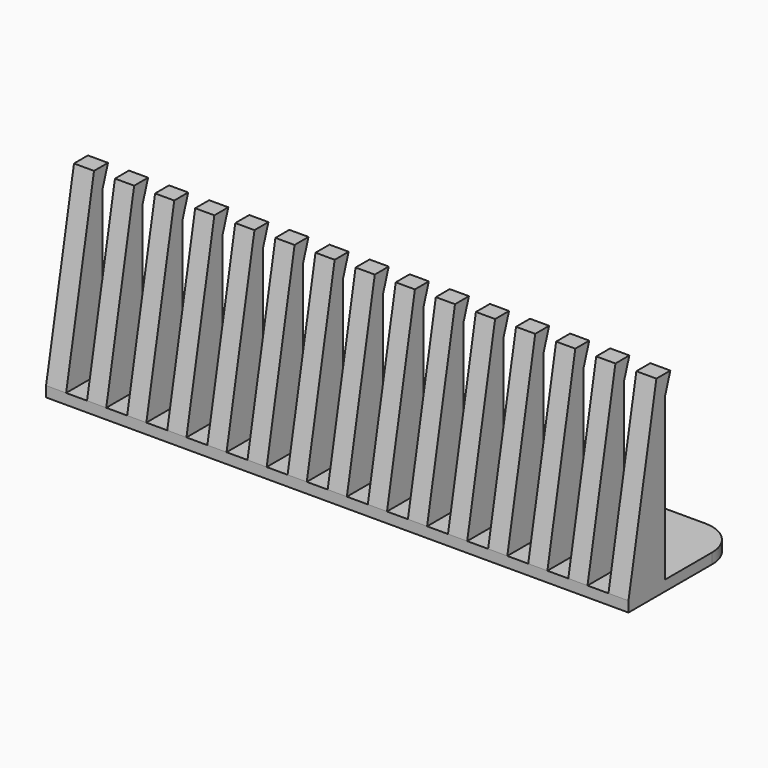
from build123d import *

# Parameters (mm, degrees)
SKETCH004_AS_DRAWN_W                 = 6
SKETCH004_AS_DRAWN_H                 = 52
EXTRUDE003_DEPTH                     = 15
EXTRUDE003_ONTO_SKETCH004_ROLL_ANGLE = 90
EXTRUDE002_DEPTH                     = 167
EXTRUDE001_DEPTH                     = 3
SKETCH_R                             = 4.6875
EXTRUDE_DEPTH                        = 3


with BuildPart() as extrude003:
    # Sketch004 as drawn → Extrude003 (new)
    with BuildSketch(Plane.XY):
        with Locations((-74.75, 29)):
            Rectangle(SKETCH004_AS_DRAWN_W, SKETCH004_AS_DRAWN_H)
        with Locations((-63.25, 29)):
            Rectangle(SKETCH004_AS_DRAWN_W, SKETCH004_AS_DRAWN_H)
        with Locations((-51.75, 29)):
            Rectangle(SKETCH004_AS_DRAWN_W, SKETCH004_AS_DRAWN_H)
        with Locations((-40.25, 29)):
            Rectangle(SKETCH004_AS_DRAWN_W, SKETCH004_AS_DRAWN_H)
        with Locations((-28.75, 29)):
            Rectangle(SKETCH004_AS_DRAWN_W, SKETCH004_AS_DRAWN_H)
        with Locations((-17.25, 29)):
            Rectangle(SKETCH004_AS_DRAWN_W, SKETCH004_AS_DRAWN_H)
        with Locations((-5.75, 29)):
            Rectangle(SKETCH004_AS_DRAWN_W, SKETCH004_AS_DRAWN_H)
        with Locations((5.75, 29)):
            Rectangle(SKETCH004_AS_DRAWN_W, SKETCH004_AS_DRAWN_H)
        with Locations((17.25, 29)):
            Rectangle(SKETCH004_AS_DRAWN_W, SKETCH004_AS_DRAWN_H)
        with Locations((28.75, 29)):
            Rectangle(SKETCH004_AS_DRAWN_W, SKETCH004_AS_DRAWN_H)
        with Locations((40.25, 29)):
            Rectangle(SKETCH004_AS_DRAWN_W, SKETCH004_AS_DRAWN_H)
        with Locations((51.75, 29)):
            Rectangle(SKETCH004_AS_DRAWN_W, SKETCH004_AS_DRAWN_H)
        with Locations((63.25, 29)):
            Rectangle(SKETCH004_AS_DRAWN_W, SKETCH004_AS_DRAWN_H)
        with Locations((74.75, 29)):
            Rectangle(SKETCH004_AS_DRAWN_W, SKETCH004_AS_DRAWN_H)
    extrude(amount=-EXTRUDE003_DEPTH)


with BuildPart() as extrude003_1:
    # Extrude003 onto Sketch004 roll: moved
    add(extrude003.part.rotate(Axis((0, 0, 0), (1, 0, 0)), EXTRUDE003_ONTO_SKETCH004_ROLL_ANGLE))


with BuildPart() as extrude003_2:
    # Extrude003 onto Sketch004 placement: moved
    add(extrude003_1.part.moved(Location((0, -10, 0))))


with BuildPart() as cut001:
    # Sketch003 → Extrude002 (new body)
    with BuildSketch(Plane(origin=(-83.5, 0, 0), x_dir=(0, -1, 0), z_dir=(-1, 0, 0))):
        Polygon((0, 55), (-5, 55), (-3, 49), (-3, 3), (10, 3), align=None)
    extrude(amount=-EXTRUDE002_DEPTH)

    # Cut001: cut Extrude003
    add(extrude003_2.part, mode=Mode.SUBTRACT)


with BuildPart() as extrude001:
    # Sketch001 → Extrude001 (new body)
    with BuildSketch(Plane.XY.offset(3)):
        with BuildLine():
            ThreePointArc((-54.05, 10), (-50.8, 6.75), (-47.55, 10))
            Line((-47.55, 10), (-47.55, 20))
            ThreePointArc((-47.55, 20), (-50.8, 23.25), (-54.05, 20))
            Line((-54.05, 10), (-54.05, 20))
        make_face()
        with BuildLine():
            ThreePointArc((47.55, 10), (50.8, 6.75), (54.05, 10))
            Line((54.05, 10), (54.05, 20))
            ThreePointArc((54.05, 20), (50.8, 23.25), (47.55, 20))
            Line((47.55, 10), (47.55, 20))
        make_face()
    extrude(amount=-EXTRUDE001_DEPTH)


with BuildPart() as fusion:
    # Sketch → Extrude (new body)
    with BuildSketch(Plane.XY):
        with BuildLine():
            Line((-83.5, 20), (-83.5, -10))
            Line((-83.5, -10), (83.5, -10))
            Line((83.5, -10), (83.5, 20))
            ThreePointArc((83.5, 20), (80.566817, 27.075323), (73.487973, 30))
            Line((-73.500027, 30), (73.487973, 30))
            ThreePointArc((-73.500027, 30), (-80.571077, 27.071058), (-83.5, 20))
        make_face()
        with Locations((50.8, 10)):
            Circle(SKETCH_R, mode=Mode.SUBTRACT)
        with Locations((-50.8, 10)):
            Circle(SKETCH_R, mode=Mode.SUBTRACT)
    extrude(amount=EXTRUDE_DEPTH)

    # Cut: cut Extrude001
    add(extrude001.part, mode=Mode.SUBTRACT)

    # Fusion: union Cut001
    add(cut001.part)


solid = fusion.part
